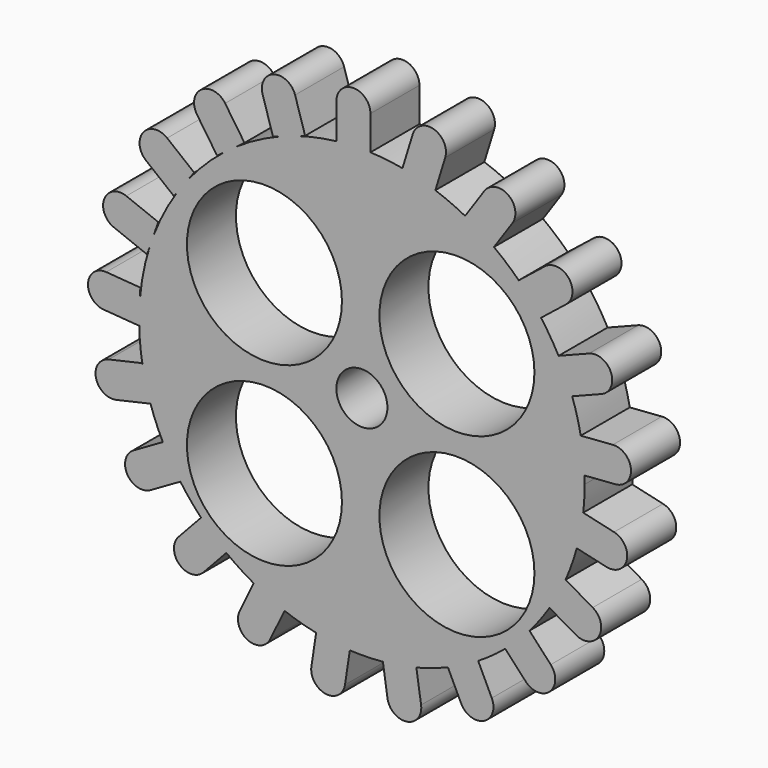
from build123d import *

# Parameters (mm, degrees)
F0_R     = 19.2786
F1_DEPTH = 15.24
F2_R     = 6.35
F3_DEPTH = 25.4
F4_DEPTH = 25.4


with BuildPart() as f1:
    # F0 (on Front) → F1 (new body)
    with BuildSketch(Plane.XZ):
        with BuildLine():
            Line((-6.3338595305, 54.1750058318), (2.1211463995, 54.4975670451))
            ThreePointArc((2.1211463995, 54.4975670451), (-2.1125220508, 54.4978967394), (-6.3338595305, 54.1750058318))
        make_face()
        with BuildLine():
            ThreePointArc((-6.3338595305, 54.1750058318), (-2.1125220508, 54.4978967394), (2.1211463995, 54.4975670451))
            Line((2.1211463995, 54.4975670451), (2.1211463995, 62.9920203337))
            ThreePointArc((2.1211463995, 62.9920203337), (-2.1063565655, 67.2195232987), (-6.3338595305, 62.9920203337))
            Line((-6.3338595305, 62.9920203337), (-6.3338595305, 54.1750058318))
        make_face()
        with BuildLine():
            ThreePointArc((10.0898015776, 53.6118576151), (6.1215139405, 54.1990224635), (2.1211463995, 54.4975670451))
            Line((2.1211463995, 54.4975670451), (-6.3338595305, 54.1750058318))
            ThreePointArc((-6.3338595305, 54.1750058318), (-11.3066838852, 53.372405478), (-16.1860813381, 52.1215538134))
            Line((-16.1860813381, 52.1215538134), (-20.3071458599, 50.6831796828))
            ThreePointArc((-20.3071458599, 50.6831796828), (-25.9479614211, 48.0875692637), (-31.2629721933, 44.877171448))
            Line((-31.2629721933, 44.877171448), (-34.4434483906, 42.5333740772))
            ThreePointArc((-34.4434483906, 42.5333740772), (-39.0104701153, 38.4801428969), (-43.1038024971, 33.9490281944))
            Line((-43.1038024971, 33.9490281944), (-45.9432375224, 30.1068546618))
            ThreePointArc((-45.9432375224, 30.1068546618), (-49.1988695235, 24.6227589771), (-51.8028144884, 18.8009108319))
            Line((-51.8028144884, 18.8009108319), (-52.7502531263, 16.0981504044))
            ThreePointArc((-52.7502531263, 16.0981504044), (-54.3275928476, 10.0428120426), (-55.2121907933, 3.8482491245))
            Line((-55.2121907933, 3.8482491245), (-55.4113712042, -1.4067716173))
            ThreePointArc((-55.4113712042, -1.4067716173), (-55.1685867953, -6.0842960106), (-54.5316585409, -10.7246086206))
            Line((-54.5316585409, -10.7246086206), (-52.5007128459, -18.3166137329))
            Line((-52.5007128459, -18.3166137329), (-52.5909038702, -18.337091033))
            ThreePointArc((-52.5909038702, -18.337091033), (-51.1895052999, -22.0968727206), (-49.5197170624, -25.745390712))
            Line((-49.5197170624, -25.745390712), (-49.4349565396, -25.6965744485))
            Line((-49.4349565396, -25.6965744485), (-44.9357338881, -32.8623379491))
            Line((-44.9357338881, -32.8623379491), (-45.158854988, -32.9908404411))
            ThreePointArc((-45.158854988, -32.9908404411), (-42.7004927426, -36.1938622622), (-40.0154261207, -39.2093739854))
            Line((-40.0154261207, -39.2093739854), (-39.83043137, -39.0103919577))
            Line((-39.83043137, -39.0103919577), (-33.4185308325, -44.5311439454))
            Line((-33.4185308325, -44.5311439454), (-33.7166199384, -44.851771285))
            ThreePointArc((-33.7166199384, -44.851771285), (-30.402377186, -47.2049665713), (-26.9245562188, -49.3088901434))
            Line((-26.9245562188, -49.3088901434), (-26.7275395365, -48.9007340144))
            Line((-26.7275395365, -48.9007340144), (-18.9729740973, -52.2856839199))
            Line((-18.9729740973, -52.2856839199), (-19.2414048455, -52.8417873613))
            ThreePointArc((-19.2414048455, -52.8417873613), (-15.3550337995, -54.1197506302), (-11.3849690994, -55.1075037878))
            Line((-11.3849690994, -55.1075037878), (-11.2911179596, -54.4883568814))
            Line((-11.2911179596, -54.4883568814), (-2.8832624714, -55.4365852835))
            Line((-2.8832624714, -55.4365852835), (-3.0002510292, -56.208372433))
            ThreePointArc((-3.0002510292, -56.208372433), (1.1136915104, -56.278460231), (5.2214940311, -56.0431009963))
            Line((5.2214940311, -56.0431009963), (5.1065474556, -55.2765252198))
            Line((5.1065474556, -55.2765252198), (13.4202411615, -53.7037353491))
            Line((13.4202411615, -53.7037353491), (13.5555452995, -54.60607519))
            ThreePointArc((13.5555452995, -54.60607519), (17.522413929, -53.4463282142), (21.3918125357, -51.994152538))
            Line((21.3918125357, -51.994152538), (21.0077169729, -51.1951714756))
            Line((21.0077169729, -51.1951714756), (28.4881679746, -47.2411831317))
            Line((28.4881679746, -47.2411831317), (28.9218696074, -48.1433528647))
            ThreePointArc((28.9218696074, -48.1433528647), (32.3738086124, -45.8494912052), (35.644646667, -43.3040437735))
            Line((35.644646667, -43.3040437735), (34.9987889558, -42.6071248311))
            Line((34.9987889558, -42.6071248311), (40.9809909616, -36.6234445108))
            Line((40.9809909616, -36.6234445108), (41.686692044, -37.3849380155))
            ThreePointArc((41.686692044, -37.3849380155), (44.3011813634, -34.163983913), (46.6673796615, -30.7564620355))
            Line((46.6673796615, -30.7564620355), (45.8359679575, -30.2758559716))
            Line((45.8359679575, -30.2758559716), (49.7881078491, -22.7944282141))
            Line((49.7881078491, -22.7944282141), (50.6717012954, -23.3051984694))
            ThreePointArc((50.6717012954, -23.3051984694), (52.2062727055, -19.45548793), (53.4488417825, -15.5018563414))
            Line((53.4488417825, -15.5018563414), (52.5558371705, -15.2976051337))
            Line((52.5558371705, -15.2976051337), (54.1265727771, -6.9835230637))
            Line((54.1265727771, -6.9835230637), (55.0523881979, -7.1952788769))
            ThreePointArc((55.0523881979, -7.1952788769), (55.3234600188, -4.0406742411), (55.4139157302, -0.8757369425))
            ThreePointArc((55.4139157302, -0.8757369425), (55.4054849264, 0.0908532649), (55.3801950802, 1.0571493538))
            Line((55.3801950802, 1.0571493538), (54.5610054342, 0.9960728008))
            Line((54.5610054342, 0.9960728008), (53.6106995786, 9.4036937363))
            Line((53.6106995786, 9.4036937363), (54.440423611, 9.4655557045))
            ThreePointArc((54.440423611, 9.4655557045), (53.5232428706, 13.4757274137), (52.3110945171, 17.406807929))
            Line((52.3110945171, 17.406807929), (51.6732148451, 17.1566825021))
            Line((51.6732148451, 17.1566825021), (48.2863489809, 24.9104113232))
            Line((48.2863489809, 24.9104113232), (48.9177544215, 25.157998074))
            ThreePointArc((48.9177544215, 25.157998074), (46.8642614085, 28.6952464566), (44.5554553352, 32.0713942896))
            Line((44.5554553352, 32.0713942896), (44.1491877468, 31.7475583025))
            Line((44.1491877468, 31.7475583025), (38.6268516222, 38.1580945313))
            Line((38.6268516222, 38.1580945313), (39.0195646066, 38.4711261404))
            ThreePointArc((39.0195646066, 38.4711261404), (36.0312062929, 41.2247883467), (32.8490873436, 43.752051679))
            Line((32.8490873436, 43.752051679), (32.6578043122, 43.4715826611))
            Line((32.6578043122, 43.4715826611), (25.4909293253, 47.9690345992))
            Line((25.4909293253, 47.9690345992), (25.6711409559, 48.2332701598))
            ThreePointArc((25.6711409559, 48.2332701598), (22.0280763803, 49.9717399618), (18.2681232873, 51.4403956373))
            Line((18.2681232873, 51.4403956373), (18.2206396154, 51.2864989061))
            Line((18.2206396154, 51.2864989061), (10.0463553935, 53.4710465647))
            Line((10.0463553935, 53.4710465647), (10.0898015776, 53.6118576151))
        make_face()
        with Locations((-24.2454558611, -24.3969894946)):
            Circle(F0_R, mode=Mode.SUBTRACT)
        with Locations((23.6393157393, -24.3969894946)):
            Circle(F0_R, mode=Mode.SUBTRACT)
        with Locations((-24.2454558611, 19.5478983223)):
            Circle(F0_R, mode=Mode.SUBTRACT)
        with Locations((23.6393157393, 19.5478983223)):
            Circle(F0_R, mode=Mode.SUBTRACT)
        with BuildLine():
            Line((12.6458567505, 61.8961481915), (10.0898015776, 53.6118576151))
            ThreePointArc((10.0898015776, 53.6118576151), (14.220470718, 52.6824582204), (18.2681232873, 51.4403956373))
            Line((18.2681232873, 51.4403956373), (20.725040946, 59.4033770404))
            ThreePointArc((20.725040946, 59.4033770404), (17.9318344238, 64.6893547137), (12.6458567505, 61.8961481915))
        make_face()
        with BuildLine():
            ThreePointArc((18.2681232873, 51.4403956373), (14.220470718, 52.6824582204), (10.0898015776, 53.6118576151))
            Line((10.0898015776, 53.6118576151), (10.0463553935, 53.4710465647))
            Line((10.0463553935, 53.4710465647), (18.2206396154, 51.2864989061))
            Line((18.2206396154, 51.2864989061), (18.2681232873, 51.4403956373))
        make_face()
        with BuildLine():
            Line((-20.3071458599, 50.6831796828), (-16.1860813381, 52.1215538134))
            ThreePointArc((-16.1860813381, 52.1215538134), (-18.2607814145, 51.4429587473), (-20.3071458599, 50.6831796828))
        make_face()
        with BuildLine():
            ThreePointArc((-20.3071458599, 50.6831796828), (-18.2607814145, 51.4429587473), (-16.1860813381, 52.1215538134))
            Line((-16.1860813381, 52.1215538134), (-14.1242740978, 52.8411858845))
            Line((-14.1242740978, 52.8411858845), (-16.6157097213, 60.9620531538))
            ThreePointArc((-16.6157097213, 60.9620531538), (-21.8972199517, 63.7636977288), (-24.6988645267, 58.4821874984))
            Line((-24.6988645267, 58.4821874984), (-22.1128212256, 50.0529452566))
            Line((-22.1128212256, 50.0529452566), (-20.3071458599, 50.6831796828))
        make_face()
        with BuildLine():
            Line((30.4588383851, 55.2532383512), (25.6711409559, 48.2332701598))
            ThreePointArc((25.6711409559, 48.2332701598), (29.3457766949, 46.129873858), (32.8490873436, 43.752051679))
            Line((32.8490873436, 43.752051679), (37.4439676378, 50.4893014709))
            ThreePointArc((37.4439676378, 50.4893014709), (36.3333714516, 56.3638345374), (30.4588383851, 55.2532383512))
        make_face()
        with BuildLine():
            ThreePointArc((32.8490873436, 43.752051679), (29.3457766949, 46.129873858), (25.6711409559, 48.2332701598))
            Line((25.6711409559, 48.2332701598), (25.4909293253, 47.9690345992))
            Line((25.4909293253, 47.9690345992), (32.6578043122, 43.4715826611))
            Line((32.6578043122, 43.4715826611), (32.8490873436, 43.752051679))
        make_face()
        with BuildLine():
            Line((-34.4434483906, 42.5333740772), (-31.2629721933, 44.877171448))
            ThreePointArc((-31.2629721933, 44.877171448), (-32.8741049006, 43.7336262399), (-34.4434483906, 42.5333740772))
        make_face()
        with BuildLine():
            ThreePointArc((-34.4434483906, 42.5333740772), (-32.8741049006, 43.7336262399), (-31.2629721933, 44.877171448))
            Line((-31.2629721933, 44.877171448), (-29.2071645515, 46.3921636212))
            Line((-29.2071645515, 46.3921636212), (-34.0193634971, 53.4723209665))
            ThreePointArc((-34.0193634971, 53.4723209665), (-39.8921154697, 54.5922972638), (-41.012091767, 48.7195452912))
            Line((-41.012091767, 48.7195452912), (-36.0185728909, 41.3726130987))
            Line((-36.0185728909, 41.3726130987), (-34.4434483906, 42.5333740772))
        make_face()
        with BuildLine():
            Line((45.5215251227, 43.653840345), (39.0195646066, 38.4711261404))
            ThreePointArc((39.0195646066, 38.4711261404), (41.9098452814, 35.3770826036), (44.5554553352, 32.0713942896))
            Line((44.5554553352, 32.0713942896), (50.7916268601, 37.0422480289))
            ThreePointArc((50.7916268601, 37.0422480289), (51.4623721494, 42.9830950557), (45.5215251227, 43.653840345))
        make_face()
        with BuildLine():
            ThreePointArc((44.5554553352, 32.0713942896), (41.9098452814, 35.3770826036), (39.0195646066, 38.4711261404))
            Line((39.0195646066, 38.4711261404), (38.6268516222, 38.1580945313))
            Line((38.6268516222, 38.1580945313), (44.1491877468, 31.7475583025))
            Line((44.1491877468, 31.7475583025), (44.5554553352, 32.0713942896))
        make_face()
        with BuildLine():
            Line((-45.9432375224, 30.1068546618), (-43.1038024971, 33.9490281944))
            ThreePointArc((-43.1038024971, 33.9490281944), (-44.56494596, 32.058555947), (-45.9432375224, 30.1068546618))
        make_face()
        with BuildLine():
            ThreePointArc((-45.9432375224, 30.1068546618), (-44.56494596, 32.058555947), (-43.1038024971, 33.9490281944))
            Line((-43.1038024971, 33.9490281944), (-41.7256574852, 35.8138612482))
            Line((-41.7256574852, 35.8138612482), (-48.4412500354, 41.1844227874))
            ThreePointArc((-48.4412500354, 41.1844227874), (-54.3831606551, 40.5231657829), (-53.7219036507, 34.5812551632))
            Line((-53.7219036507, 34.5812551632), (-46.754398118, 29.0092349791))
            Line((-46.754398118, 29.0092349791), (-45.9432375224, 30.1068546618))
        make_face()
        with BuildLine():
            Line((56.4948557957, 28.1291316585), (48.9177544215, 25.157998074))
            ThreePointArc((48.9177544215, 25.157998074), (50.7625866315, 21.3472658931), (52.3110945171, 17.406807929))
            Line((52.3110945171, 17.406807929), (59.5814220611, 20.2576493352))
            ThreePointArc((59.5814220611, 20.2576493352), (61.9738800901, 25.7366736296), (56.4948557957, 28.1291316585))
        make_face()
        with BuildLine():
            ThreePointArc((52.3110945171, 17.406807929), (50.7625866315, 21.3472658931), (48.9177544215, 25.157998074))
            Line((48.9177544215, 25.157998074), (48.2863489809, 24.9104113232))
            Line((48.2863489809, 24.9104113232), (51.6732148451, 17.1566825021))
            Line((51.6732148451, 17.1566825021), (52.3110945171, 17.406807929))
        make_face()
        with BuildLine():
            Line((-52.7502531263, 16.0981504044), (-51.8028144884, 18.8009108319))
            ThreePointArc((-51.8028144884, 18.8009108319), (-52.2939978907, 17.4556525619), (-52.7502531263, 16.0981504044))
        make_face()
        with BuildLine():
            ThreePointArc((-52.7502531263, 16.0981504044), (-52.2939978907, 17.4556525619), (-51.8028144884, 18.8009108319))
            Line((-51.8028144884, 18.8009108319), (-50.6594036296, 22.062721674))
            Line((-50.6594036296, 22.062721674), (-58.5992748095, 25.1907432334))
            ThreePointArc((-58.5992748095, 25.1907432334), (-64.0821128311, 22.807038162), (-61.6984077596, 17.3242001404))
            Line((-61.6984077596, 17.3242001404), (-53.4584254142, 14.0779456556))
            Line((-53.4584254142, 14.0779456556), (-52.7502531263, 16.0981504044))
        make_face()
        with BuildLine():
            Line((62.403309819, 10.0592468522), (54.440423611, 9.4655557045))
            ThreePointArc((54.440423611, 9.4655557045), (55.0710213885, 5.279314624), (55.3801950802, 1.0571493538))
            Line((55.3801950802, 1.0571493538), (63.0319472655, 1.6276431946))
            ThreePointArc((63.0319472655, 1.6276431946), (66.933430371, 6.1577637467), (62.403309819, 10.0592468522))
        make_face()
        with BuildLine():
            ThreePointArc((55.3801950802, 1.0571493538), (55.0710213885, 5.279314624), (54.440423611, 9.4655557045))
            Line((54.440423611, 9.4655557045), (53.6106995786, 9.4036937363))
            Line((53.6106995786, 9.4036937363), (54.5610054342, 0.9960728008))
            Line((54.5610054342, 0.9960728008), (55.3801950802, 1.0571493538))
        make_face()
        with BuildLine():
            Line((-55.4113712042, -1.4067716173), (-55.2121907933, 3.8482491245))
            ThreePointArc((-55.2121907933, 3.8482491245), (-55.374153971, 1.2231028688), (-55.4113712042, -1.4067716173))
        make_face()
        with BuildLine():
            ThreePointArc((-55.4113712042, -1.4067716173), (-55.374153971, 1.2231028688), (-55.2121907933, 3.8482491245))
            Line((-55.2121907933, 3.8482491245), (-55.1204748736, 6.2680104759))
            Line((-55.1204748736, 6.2680104759), (-63.590397296, 6.9131080114))
            ThreePointArc((-63.590397296, 6.9131080114), (-68.1267426721, 3.0188644049), (-64.2324990656, -1.5174809712))
            Line((-64.2324990656, -1.5174809712), (-55.4409469443, -2.1870748972))
            Line((-55.4409469443, -2.1870748972), (-55.4113712042, -1.4067716173))
        make_face()
        with BuildLine():
            Line((-52.5007128459, -18.3166137329), (-54.5316585409, -10.7246086206))
            ThreePointArc((-54.5316585409, -10.7246086206), (-53.6963529162, -14.5652855127), (-52.5909038702, -18.337091033))
            Line((-52.5909038702, -18.337091033), (-52.5007128459, -18.3166137329))
        make_face()
        with BuildLine():
            ThreePointArc((-52.5909038702, -18.337091033), (-53.6963529162, -14.5652855127), (-54.5316585409, -10.7246086206))
            Line((-54.5316585409, -10.7246086206), (-54.6872802075, -10.1428695366))
            Line((-54.6872802075, -10.1428695366), (-62.9709105773, -12.0236152846))
            ThreePointArc((-62.9709105773, -12.0236152846), (-66.1574857227, -17.0822021902), (-61.0988988171, -20.2687773356))
            Line((-61.0988988171, -20.2687773356), (-52.5909038702, -18.337091033))
        make_face()
        with BuildLine():
            Line((62.7216302126, -8.9494153308), (55.0523881979, -7.1952788769))
            ThreePointArc((55.0523881979, -7.1952788769), (54.4093653162, -11.3792136264), (53.4488417825, -15.5018563414))
            Line((53.4488417825, -15.5018563414), (60.8364534588, -17.1915772974))
            ThreePointArc((60.8364534588, -17.1915772974), (65.900122819, -14.013084691), (62.7216302126, -8.9494153308))
        make_face()
        with BuildLine():
            ThreePointArc((53.4488417825, -15.5018563414), (54.4093653162, -11.3792136264), (55.0523881979, -7.1952788769))
            Line((55.0523881979, -7.1952788769), (54.1265727771, -6.9835230637))
            Line((54.1265727771, -6.9835230637), (52.5558371705, -15.2976051337))
            Line((52.5558371705, -15.2976051337), (53.4488417825, -15.5018563414))
        make_face()
        with BuildLine():
            Line((-49.4349565396, -25.6965744485), (-49.5197170624, -25.745390712))
            ThreePointArc((-49.5197170624, -25.745390712), (-47.4777014695, -29.4514245062), (-45.158854988, -32.9908404411))
            Line((-45.158854988, -32.9908404411), (-44.9357338881, -32.8623379491))
            Line((-44.9357338881, -32.8623379491), (-49.4349565396, -25.6965744485))
        make_face()
        with BuildLine():
            ThreePointArc((-45.158854988, -32.9908404411), (-47.4777014695, -29.4514245062), (-49.5197170624, -25.745390712))
            Line((-49.5197170624, -25.745390712), (-56.7958865422, -29.935966642))
            ThreePointArc((-56.7958865422, -29.935966642), (-58.3494073981, -35.7091923944), (-52.5761816456, -37.2627132503))
            Line((-52.5761816456, -37.2627132503), (-45.158854988, -32.9908404411))
        make_face()
        with BuildLine():
            Line((57.4215185406, -27.2069995665), (50.6717012954, -23.3051984694))
            ThreePointArc((50.6717012954, -23.3051984694), (48.8119299205, -27.1073505793), (46.6673796615, -30.7564620355))
            Line((46.6673796615, -30.7564620355), (53.1901183377, -34.5269980365))
            ThreePointArc((53.1901183377, -34.5269980365), (58.9658176742, -32.982698903), (57.4215185406, -27.2069995665))
        make_face()
        with BuildLine():
            ThreePointArc((46.6673796615, -30.7564620355), (48.8119299205, -27.1073505793), (50.6717012954, -23.3051984694))
            Line((50.6717012954, -23.3051984694), (49.7881078491, -22.7944282141))
            Line((49.7881078491, -22.7944282141), (45.8359679575, -30.2758559716))
            Line((45.8359679575, -30.2758559716), (46.6673796615, -30.7564620355))
        make_face()
        with BuildLine():
            Line((-39.83043137, -39.0103919577), (-40.0154261207, -39.2093739854))
            ThreePointArc((-40.0154261207, -39.2093739854), (-36.9738125683, -42.1509018813), (-33.7166199384, -44.851771285))
            Line((-33.7166199384, -44.851771285), (-33.4185308325, -44.5311439454))
            Line((-33.4185308325, -44.5311439454), (-39.83043137, -39.0103919577))
        make_face()
        with BuildLine():
            ThreePointArc((-33.7166199384, -44.851771285), (-36.9738125683, -42.1509018813), (-40.0154261207, -39.2093739854))
            Line((-40.0154261207, -39.2093739854), (-45.6142800376, -45.2315519188))
            ThreePointArc((-45.6142800376, -45.2315519188), (-45.396639805, -51.2061812268), (-39.422010497, -50.9885409941))
            Line((-39.422010497, -50.9885409941), (-33.7166199384, -44.851771285))
        make_face()
        with BuildLine():
            Line((46.9741506195, -43.090420778), (41.686692044, -37.3849380155))
            ThreePointArc((41.686692044, -37.3849380155), (38.7787691908, -40.4599398094), (35.644646667, -43.3040437735))
            Line((35.644646667, -43.3040437735), (40.7726951635, -48.8375135651))
            ThreePointArc((40.7726951635, -48.8375135651), (46.7469692851, -49.0646948996), (46.9741506195, -43.090420778))
        make_face()
        with BuildLine():
            ThreePointArc((35.644646667, -43.3040437735), (38.7787691908, -40.4599398094), (41.686692044, -37.3849380155))
            Line((41.686692044, -37.3849380155), (40.9809909616, -36.6234445108))
            Line((40.9809909616, -36.6234445108), (34.9987889558, -42.6071248311))
            Line((34.9987889558, -42.6071248311), (35.644646667, -43.3040437735))
        make_face()
        with BuildLine():
            Line((-26.7275395365, -48.9007340144), (-26.9245562188, -49.3088901434))
            ThreePointArc((-26.9245562188, -49.3088901434), (-23.1504715057, -51.2221144251), (-19.2414048455, -52.8417873613))
            Line((-19.2414048455, -52.8417873613), (-18.9729740973, -52.2856839199))
            Line((-18.9729740973, -52.2856839199), (-26.7275395365, -48.9007340144))
        make_face()
        with BuildLine():
            ThreePointArc((-19.2414048455, -52.8417873613), (-23.1504715057, -51.2221144251), (-26.9245562188, -49.3088901434))
            Line((-26.9245562188, -49.3088901434), (-30.4201272089, -56.5506054482))
            ThreePointArc((-30.4201272089, -56.5506054482), (-28.4506739355, -62.1954984005), (-22.8057809832, -60.2260451271))
            Line((-22.8057809832, -60.2260451271), (-19.2414048455, -52.8417873613))
        make_face()
        with BuildLine():
            Line((32.308289354, -55.1876551397), (28.9218696074, -48.1433528647))
            ThreePointArc((28.9218696074, -48.1433528647), (25.2304145275, -50.2126221232), (21.3918125357, -51.994152538))
            Line((21.3918125357, -51.994152538), (24.6880832246, -58.8509301529))
            ThreePointArc((24.6880832246, -58.8509301529), (30.3298237959, -60.829395711), (32.308289354, -55.1876551397))
        make_face()
        with BuildLine():
            ThreePointArc((21.3918125357, -51.994152538), (25.2304145275, -50.2126221232), (28.9218696074, -48.1433528647))
            Line((28.9218696074, -48.1433528647), (28.4881679746, -47.2411831317))
            Line((28.4881679746, -47.2411831317), (21.0077169729, -51.1951714756))
            Line((21.0077169729, -51.1951714756), (21.3918125357, -51.994152538))
        make_face()
        with BuildLine():
            Line((-11.2911179596, -54.4883568814), (-11.3849690994, -55.1075037878))
            ThreePointArc((-11.3849690994, -55.1075037878), (-7.2136410696, -55.8181198457), (-3.0002510292, -56.208372433))
            Line((-3.0002510292, -56.208372433), (-2.8832624714, -55.4365852835))
            Line((-2.8832624714, -55.4365852835), (-11.2911179596, -54.4883568814))
        make_face()
        with BuildLine():
            ThreePointArc((-3.0002510292, -56.208372433), (-7.2136410696, -55.8181198457), (-11.3849690994, -55.1075037878))
            Line((-11.3849690994, -55.1075037878), (-12.5641764569, -62.886872151))
            ThreePointArc((-12.5641764569, -62.886872151), (-9.0179930113, -67.7002021426), (-4.2046630197, -64.1540186969))
            Line((-4.2046630197, -64.1540186969), (-3.0002510292, -56.208372433))
        make_face()
        with BuildLine():
            Line((14.7277184348, -62.4232679), (13.5555452995, -54.60607519))
            ThreePointArc((13.5555452995, -54.60607519), (9.4159737838, -55.4838086377), (5.2214940311, -56.0431009963))
            Line((5.2214940311, -56.0431009963), (6.3661920464, -63.6770628321))
            ThreePointArc((6.3661920464, -63.6770628321), (11.1738527067, -67.2309285603), (14.7277184348, -62.4232679))
        make_face()
        with BuildLine():
            ThreePointArc((5.2214940311, -56.0431009963), (9.4159737838, -55.4838086377), (13.5555452995, -54.60607519))
            Line((13.5555452995, -54.60607519), (13.4202411615, -53.7037353491))
            Line((13.4202411615, -53.7037353491), (5.1065474556, -55.2765252198))
            Line((5.1065474556, -55.2765252198), (5.2214940311, -56.0431009963))
        make_face()
    extrude(amount=F1_DEPTH)

    # F2 (on face) → F3 (cut)
    with BuildSketch(Plane.XZ.offset(15.24)):
        Circle(F2_R)
    extrude(amount=-F3_DEPTH, mode=Mode.SUBTRACT)

    # F2 (on face) → F4 (cut)
    with BuildSketch(Plane.XZ.offset(15.24)):
        Circle(F2_R)
    extrude(amount=-F4_DEPTH, mode=Mode.SUBTRACT)


solid = f1.part
